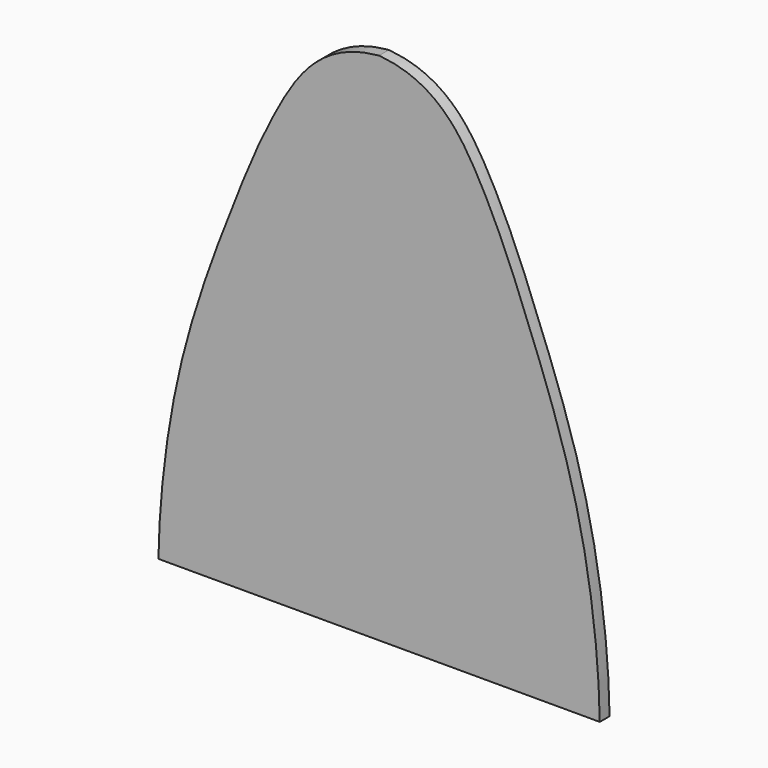
from build123d import *

# Parameters (mm, degrees)
F1_DEPTH = 2


with BuildPart() as f1:
    # F0 (on Front) → F1 (new body)
    with BuildSketch(Plane.XZ):
        with BuildLine():
            Line((-36, 0), (0, 0))
            Line((0, 0), (36, 0))
            add(Edge.make_bspline(
                [(0, 84), (9.0386488057, 83.2043369031), (17.001886319, 71.7162749798), (24.2787977449, 53.8829701914), (33.5255007097, 29.3257080024), (35.8800520449, 8.8540044835), (36, 0)],
                knots=[0, 0, 0, 0, 0.2326795425, 0.4576643196, 0.7218427709, 1, 1, 1, 1], degree=3))
            add(Edge.make_bspline(
                [(0, 84), (-9.0386488057, 83.2043369031), (-17.001886319, 71.7162749798), (-24.2787977449, 53.8829701914), (-33.5255007097, 29.3257080024), (-35.8800520449, 8.8540044835), (-36, 0)],
                knots=[0, 0, 0, 0, 0.2326795425, 0.4576643196, 0.7218427709, 1, 1, 1, 1], degree=3))
        make_face()
    extrude(amount=F1_DEPTH)


solid = f1.part
